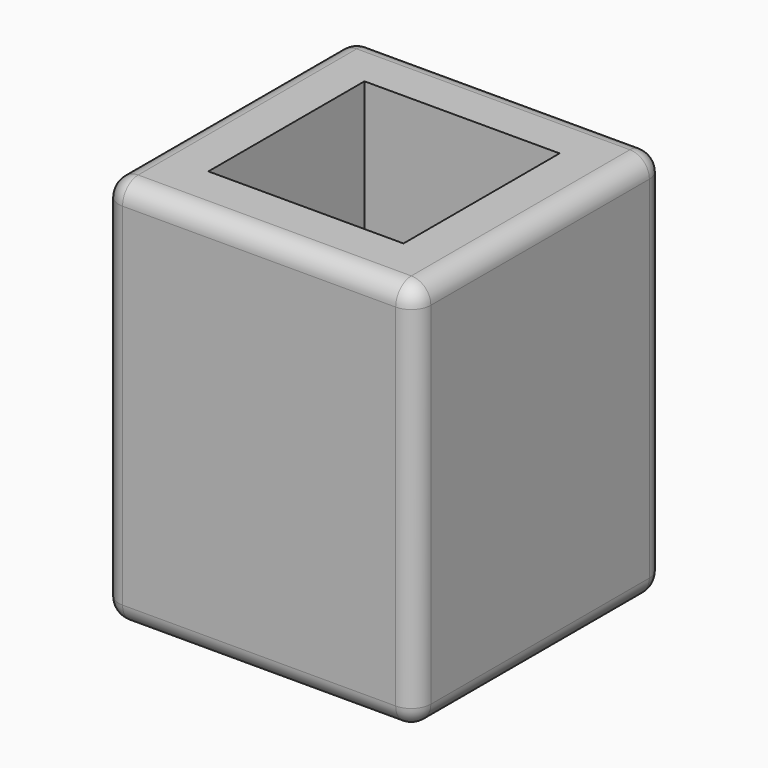
from build123d import *

# Parameters (mm, degrees)
F0_W     = 16
F0_H     = 16
F1_DEPTH = 20
F2_W     = 10
F2_H     = 10
F3_DEPTH = 15
F4_R     = 1


with BuildPart() as f1:
    # F0 (on Top) → F1 (new body)
    with BuildSketch(Plane.XY):
        with Locations((-53.225686, -1.982133)):
            Rectangle(F0_W, F0_H)
    extrude(amount=F1_DEPTH)

    # F2 (on face) → F3 (cut)
    with BuildSketch(Plane.XY.offset(20)):
        with Locations((-53.225686, -1.982133)):
            Rectangle(F2_W, F2_H)
    extrude(amount=-F3_DEPTH, mode=Mode.SUBTRACT)

    # F4
    f4_edges = [f1.edges().sort_by_distance(p)[0] for p in [
        (-45.225686, -9.982133, 10),
        (-45.225686, 6.017867, 10),
        (-45.225686, -1.982133, 0),
        (-45.225686, -1.982133, 20),
        (-61.225686, -9.982133, 10),
        (-53.225686, -9.982133, 0),
        (-53.225686, -9.982133, 20),
        (-61.225686, 6.017867, 10),
        (-61.225686, -1.982133, 0),
        (-61.225686, -1.982133, 20),
        (-53.225686, 6.017867, 0),
        (-53.225686, 6.017867, 20),
    ]]
    fillet(f4_edges, radius=F4_R)


solid = f1.part
